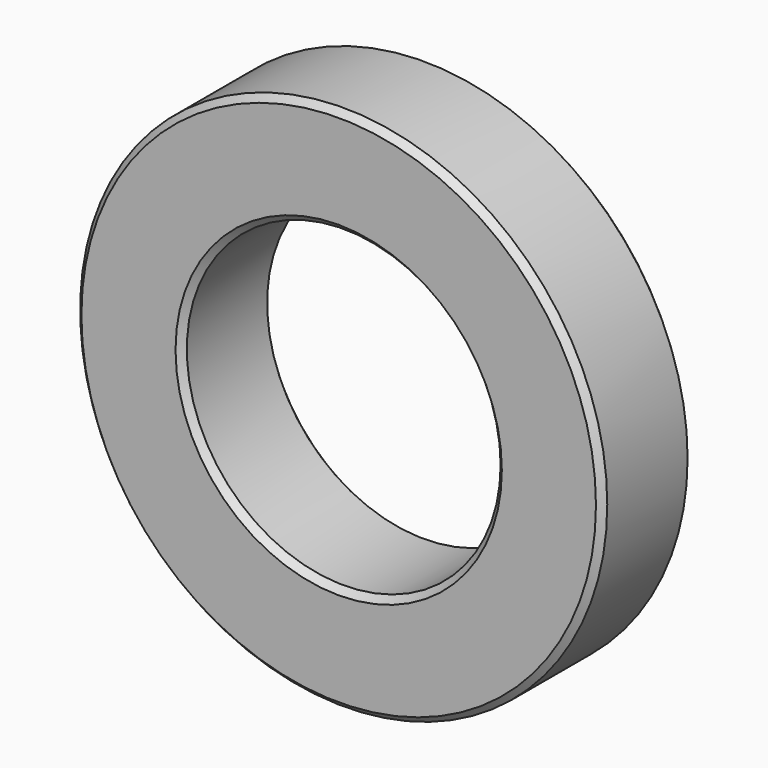
from build123d import *

# Parameters (mm, degrees)
SKETCH057_R     = 21
SKETCH057_R_2   = 12.5
PAD034_DEPTH    = 9
CHAMFER_SIZE    = 0.5
CHAMFER001_SIZE = 0.5


with BuildPart() as part:
    # Sketch057 → Pad034 (new body)
    with BuildSketch(Plane.XZ.offset(-122.5)):
        Circle(SKETCH057_R)
        Circle(SKETCH057_R_2, mode=Mode.SUBTRACT)
    extrude(amount=-PAD034_DEPTH)

    # Chamfer
    chamfer_edges = [part.edges().sort_by_distance(p)[0] for p in [
        (-21, 122.5, 0),
        (-12.5, 122.5, 0),
    ]]
    chamfer(chamfer_edges, length=CHAMFER_SIZE)

    # Chamfer001
    chamfer001_edges = [part.edges().sort_by_distance(p)[0] for p in [
        (-21, 131.5, 0),
        (-12.5, 131.5, 0),
    ]]
    chamfer(chamfer001_edges, length=CHAMFER001_SIZE)


solid = part.part
